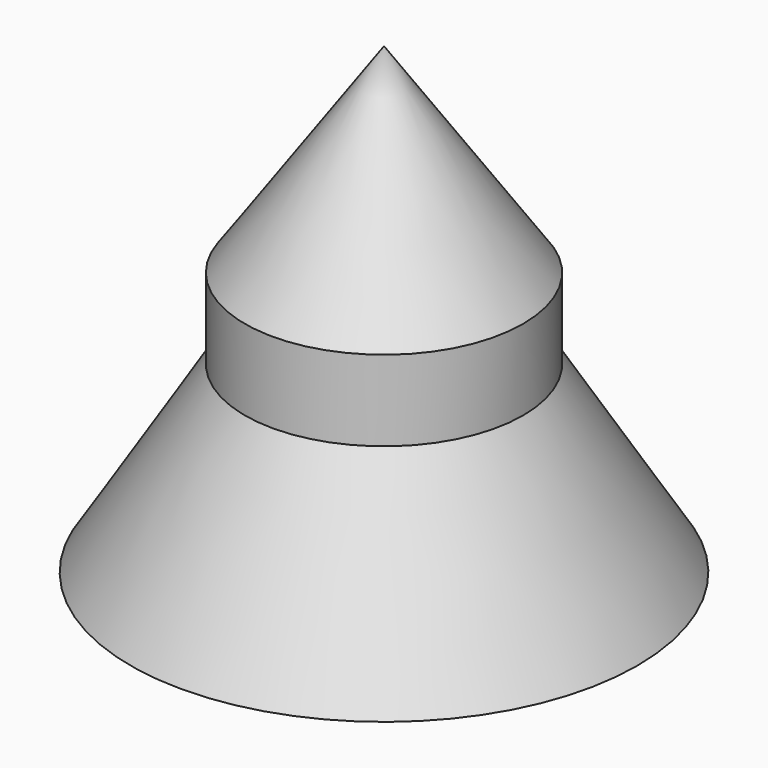
from build123d import *

# Parameters (mm, degrees)
F3_R     = 18.8713
F4_DEPTH = 41.148


with BuildPart() as f2:
    # F0 (on Front) → F2 (revolve)
    with BuildSketch(Plane.XZ):
        Polygon((-32.833509, 14.089718), (-51.704809, 41.12158), (-51.704809, 14.089718), align=None)
    revolve(axis=Axis((-51.704809, 0, 27.223122), (0, 0, -1)))

    # F3 (on face) → F4 (join)
    with BuildSketch(Plane(origin=(0, 0, 14.089718), x_dir=(1, 0, 0), z_dir=(0, 0, -1))):
        with Locations((-51.704809, 0)):
            Circle(F3_R)
    extrude(amount=F4_DEPTH)

    # F5 (on Front) → F6 (revolve)
    with BuildSketch(Plane.XZ):
        Polygon((-67.939401, -21.689953), (-67.712404, 7.753583), (-86.05796, -21.689953), align=None)
    revolve(axis=Axis((-51.704809, 0, 12.922877), (0, 0, 1)))


solid = f2.part
